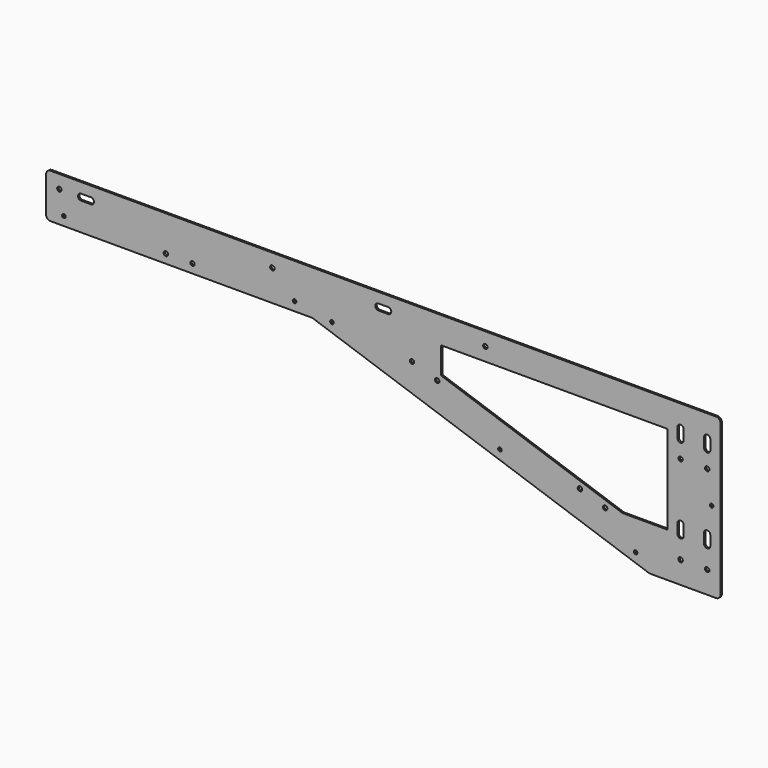
from build123d import *

# Parameters (mm, degrees)
F1_DEPTH = 2
F2_R     = 2.5
F2_R_2   = 2.05
F3_DEPTH = 25
F4_R     = 5
F6_DEPTH = 25


with BuildPart() as f1:
    # F0 (on Front) → F1 (new body)
    with BuildSketch(Plane.XZ):
        Polygon((0, 180), (-760, 180), (-760, 130), (-460, 130), (-80, 0), (0, 0), align=None)
    extrude(amount=F1_DEPTH)

    # F2 (on face) → F3 (cut)
    with BuildSketch(Plane.XZ.offset(2)):
        with Locations((-15, 25)):
            Circle(F2_R)
        with Locations((-45, 25)):
            Circle(F2_R)
        with Locations((-265, 165)):
            Circle(F2_R)
        with Locations((-505, 165)):
            Circle(F2_R)
        with Locations((-745, 165)):
            Circle(F2_R)
        with Locations((-347.617717, 123.260407)):
            Circle(F2_R)
        with Locations((-319.232797, 113.549776)):
            Circle(F2_R)
        with Locations((-158.38492, 58.522871)):
            Circle(F2_R)
        with Locations((-130, 48.81224)):
            Circle(F2_R)
        with Locations((-625, 140)):
            Circle(F2_R)
        with Locations((-595, 140)):
            Circle(F2_R)
        with Locations((-15, 125)):
            Circle(F2_R)
        with Locations((-45, 125)):
            Circle(F2_R)
        with Locations((-740, 140)):
            Circle(F2_R_2)
        with Locations((-480, 140)):
            Circle(F2_R_2)
        with Locations((-437.839844, 132.987886)):
            Circle(F2_R_2)
        with Locations((-248.607047, 68.25035)):
            Circle(F2_R_2)
        with Locations((-95.686403, 15.935393)):
            Circle(F2_R_2)
        with Locations((-10, 90)):
            Circle(F2_R_2)
        with BuildLine():
            Line((-720.5, 161.5), (-709.5, 161.5))
            ThreePointArc((-709.5, 161.5), (-706, 165), (-709.5, 168.5))
            Line((-709.5, 168.5), (-720.5, 168.5))
            ThreePointArc((-720.5, 168.5), (-724, 165), (-720.5, 161.5))
        make_face()
        with BuildLine():
            Line((-41.5, 144.5), (-41.5, 155.5))
            ThreePointArc((-41.5, 155.5), (-45, 159), (-48.5, 155.5))
            Line((-48.5, 155.5), (-48.5, 144.5))
            ThreePointArc((-48.5, 144.5), (-45, 141), (-41.5, 144.5))
        make_face()
        with BuildLine():
            Line((-385.5, 161.5), (-374.5, 161.5))
            ThreePointArc((-374.5, 161.5), (-371, 165), (-374.5, 168.5))
            Line((-374.5, 168.5), (-385.5, 168.5))
            ThreePointArc((-385.5, 168.5), (-389, 165), (-385.5, 161.5))
        make_face()
        with BuildLine():
            Line((-11.5, 144.5), (-11.5, 155.5))
            ThreePointArc((-11.5, 155.5), (-15, 159), (-18.5, 155.5))
            Line((-18.5, 155.5), (-18.5, 144.5))
            ThreePointArc((-18.5, 144.5), (-15, 141), (-11.5, 144.5))
        make_face()
        with BuildLine():
            Line((-41.5, 49.5), (-41.5, 60.5))
            ThreePointArc((-41.5, 60.5), (-45, 64), (-48.5, 60.5))
            Line((-48.5, 60.5), (-48.5, 49.5))
            ThreePointArc((-48.5, 49.5), (-45, 46), (-41.5, 49.5))
        make_face()
        with BuildLine():
            Line((-11.5, 49.5), (-11.5, 60.5))
            ThreePointArc((-11.5, 60.5), (-15, 64), (-18.5, 60.5))
            Line((-18.5, 60.5), (-18.5, 49.5))
            ThreePointArc((-18.5, 49.5), (-15, 46), (-11.5, 49.5))
        make_face()
    extrude(amount=-F3_DEPTH, mode=Mode.SUBTRACT)

    # F4
    f4_edges = [f1.edges().sort_by_distance(p)[0] for p in [
        (-760, -1, 180),
        (-760, -1, 130),
        (-460, -1, 130),
        (-80, -1, 0),
        (0, -1, 0),
        (0, -1, 180),
    ]]
    fillet(f4_edges, radius=F4_R)

    # F5 (on face) → F6 (cut)
    with BuildSketch(Plane.XZ.offset(2)):
        Polygon((-60, 150), (-315, 150), (-315, 120), (-110.384615, 50), (-60, 50), align=None)
    extrude(amount=-F6_DEPTH, mode=Mode.SUBTRACT)


solid = f1.part
